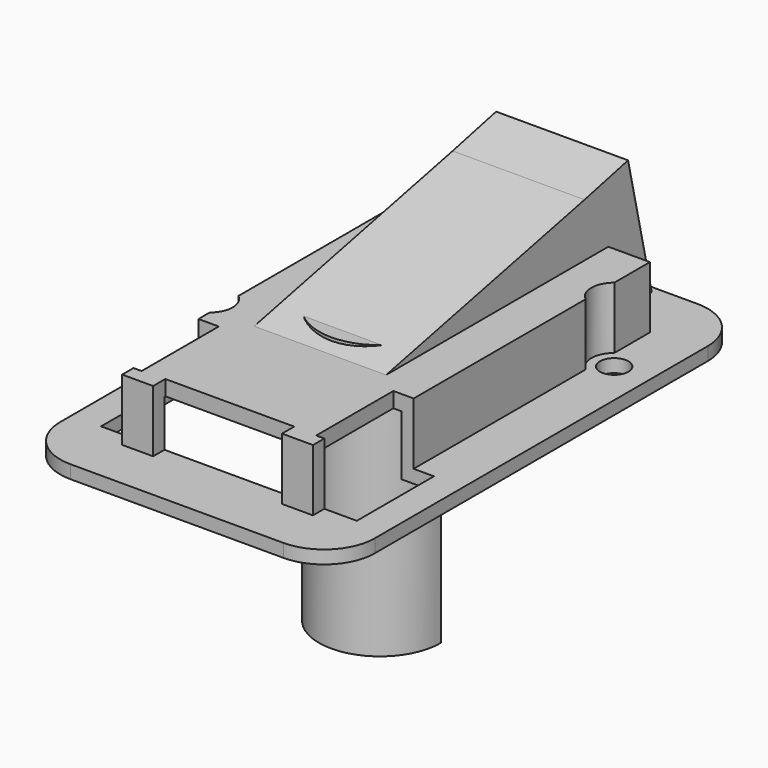
from build123d import *

# Parameters (mm, degrees)
F0_W           = 31
F0_H           = 40
F0_R           = 1.4
F1_DEPTH       = 1.3
F4_R           = 4.15
F5_DEPTH       = 12.5
F7_DEPTH       = 5.9
F8_W           = 21.2
F8_H           = 40
F9_DEPTH       = 1.5
F10_DEPTH      = 25
F11_W          = 2
F11_H          = 9
F12_DEPTH      = 6.1
F13_W          = 18.8
F13_H          = 1.4
F14_DEPTH      = 5.9
F16_DEPTH      = 6.5
F18_DEPTH      = 6.5
F19_R          = 4.25
F20_DEPTH      = 25
F22_START      = -1.3
F21_W          = 10.2
F21_H          = 10.2
F22_DEPTH      = 28.7
F23_W          = 31
F23_H          = 6
F23_H_2        = 5
F24_DEPTH      = 1.3
F26_START      = -1.3
F25_W          = 8.5
F25_H          = 8.5
F26_DEPTH      = 33.7
F27_R          = 5
F28_W          = 12.7
F28_H          = 11.4416826424
F29_DEPTH      = 6.1
F30_W          = 10.2
F30_H          = 6.0366649356
F31_DEPTH      = 2
F32_R          = 2.25
F33_DEPTH      = 25
F34_W          = 18.8
F34_H          = 1.5
F35_DEPTH      = 25
F36_W          = 4
F36_H          = 9.5
F37_DEPTH      = 25
F38_W          = 0.8
F38_H          = 1.4
F39_DEPTH      = 6.1
F40_R          = 6
F40_R_2        = 4.5
F41_DEPTH      = 19
F41_DEPTH_BACK = 8
F42_R          = 6
F42_R_2        = 3.75
F43_DEPTH      = 0.5
F44_W          = 12.3386057094
F44_H          = 24.3167272657
F45_DEPTH      = 12.5
F46_W          = 1
F46_H          = 8.638324216
F47_DEPTH      = 25


with BuildPart() as f1:
    # F0 (on Top) → F1 (new body)
    with BuildSketch(Plane.XY):
        Rectangle(F0_W, F0_H)
        with Locations((-12, -5.95)):
            Circle(F0_R, mode=Mode.SUBTRACT)
        with Locations((12, 13.85)):
            Circle(F0_R, mode=Mode.SUBTRACT)
    extrude(amount=F1_DEPTH)

    # F4 (on face) → F5 (cut, symmetric)
    with BuildSketch(Plane.XY.offset(1.3)):
        with Locations((0, 4.35)):
            Circle(F4_R)
    extrude(amount=F5_DEPTH, both=True, mode=Mode.SUBTRACT)

    # F6 (on face) → F7 (join)
    with BuildSketch(Plane(origin=(0, 0, 0), x_dir=(1, 0, 0), z_dir=(0, 0, -1))):
        Polygon((9.4, 20), (9.4, -16.3), (-9.4, -16.3), (-9.4, 20), (-10.6, 20), (-10.6, -20), (0, -20), (10.6, -20), (10.6, 20), align=None)
    extrude(amount=-F7_DEPTH)

    # F8 (on face) → F9 (join)
    with BuildSketch(Plane.XY.offset(5.9)):
        Rectangle(F8_W, F8_H)
    extrude(amount=F9_DEPTH)

    # F10 (cut): a face of the model
    f10_faces = [f1.faces().sort_by_distance(p)[0] for p in [
        (0, -2.3838844232, 1.3),
    ]]
    extrude(f10_faces, amount=-F10_DEPTH, mode=Mode.SUBTRACT)

    # F11 (on face) → F12 (cut, through all)
    with BuildSketch(Plane.XY.offset(7.4)):
        with Locations((9.6, -16)):
            Rectangle(F11_W, F11_H)
        with Locations((-9.6, -16)):
            Rectangle(F11_W, F11_H)
    extrude(amount=-F12_DEPTH, mode=Mode.SUBTRACT)

    # F13 (on face) → F14 (join, through all)
    with BuildSketch(Plane(origin=(0, 0, 0), x_dir=(1, 0, 0), z_dir=(0, 0, -1))):
        with Locations((0, 19.3)):
            Rectangle(F13_W, F13_H)
    extrude(amount=-F14_DEPTH)

    # F15 (on Right) → F16 (join, symmetric)
    with BuildSketch(Plane.YZ):
        Polygon((17.0756362935, 12.6668108422), (20, 0), (25.3590353563, 1.2372307989), (22.4346716498, 13.9040416411), align=None)
    extrude(amount=F16_DEPTH, both=True)

    # F17 (on Right) → F18 (join, symmetric)
    with BuildSketch(Plane.YZ):
        Polygon((18.2915753857, 7.4), (17.0756362935, 12.6668108422), (-7.363281513, 7.4), align=None)
    extrude(amount=F18_DEPTH, both=True)

    # F19 (on face) → F20 (cut)
    with BuildSketch(Plane(origin=(0, 24.3469758193, 5.6209422668), x_dir=(-1, 0, 0), z_dir=(0, 0.9743700648, 0.2249510543))):
        with Locations((0, 2.0009789131)):
            Circle(F19_R)
    extrude(amount=-F20_DEPTH, mode=Mode.SUBTRACT)

    # F21 (on face) → F22 (cut)
    with BuildSketch(Plane(origin=(0, 24.3469758193, 5.6209422668), x_dir=(-1, 0, 0), z_dir=(0, 0.9743700648, 0.2249510543)).offset(F22_START)):
        with Locations((0, 2.1509789131)):
            Rectangle(F21_W, F21_H)
    extrude(amount=-F22_DEPTH, mode=Mode.SUBTRACT)

    # F23 (on face) → F24 (join)
    with BuildSketch(Plane(origin=(0, 0, 0), x_dir=(1, 0, 0), z_dir=(0, 0, -1))):
        with Locations((0, -23)):
            Rectangle(F23_W, F23_H)
        with Locations((0, 22.5)):
            Rectangle(F23_W, F23_H_2)
    extrude(amount=-F24_DEPTH)

    # F25 (on face) → F26 (cut)
    with BuildSketch(Plane(origin=(0, 24.3469758193, 5.6209422668), x_dir=(-1, 0, 0), z_dir=(0, 0.9743700648, 0.2249510543)).offset(F26_START)):
        with Locations((0, 2.0009789131)):
            Rectangle(F25_W, F25_H)
    extrude(amount=-F26_DEPTH, mode=Mode.SUBTRACT)

    # F27
    f27_edges = [f1.edges().sort_by_distance(p)[0] for p in [
        (-15.5, 26, 0.65),
        (15.5, 26, 0.65),
        (15.5, -25, 0.65),
        (-15.5, -25, 0.65),
    ]]
    fillet(f27_edges, radius=F27_R)

    # F28 (on face) → F29 (cut, through all)
    with BuildSketch(Plane.XY.offset(7.4)):
        with Locations((0, -24.2208413212)):
            Rectangle(F28_W, F28_H)
    extrude(amount=-F29_DEPTH, mode=Mode.SUBTRACT)

    # F30 (on face) → F31 (cut)
    with BuildSketch(Plane(origin=(0, 0, 0), x_dir=(1, 0, 0), z_dir=(0, 0, -1))):
        with Locations((0, -17.2816675322)):
            Rectangle(F30_W, F30_H)
    extrude(amount=-F31_DEPTH, mode=Mode.SUBTRACT)

    # F32 (on face) → F33 (cut)
    with BuildSketch(Plane.XY.offset(1.3)):
        with Locations((-12, -5.95)):
            Circle(F32_R)
        with Locations((12, 13.85)):
            Circle(F32_R)
    extrude(amount=F33_DEPTH, mode=Mode.SUBTRACT)

    # F34 (on face) → F35 (cut)
    with BuildSketch(Plane(origin=(0, 0, 5.9), x_dir=(1, 0, 0), z_dir=(0, 0, -1))):
        with Locations((0, -17.05)):
            Rectangle(F34_W, F34_H)
    extrude(amount=F35_DEPTH, mode=Mode.SUBTRACT)

    # F36 (on face) → F37 (cut)
    with BuildSketch(Plane.XY.offset(7.4)):
        with Locations((10.6, -13.85)):
            Rectangle(F36_W, F36_H)
        with Locations((-10.6, -13.85)):
            Rectangle(F36_W, F36_H)
    extrude(amount=-F37_DEPTH, mode=Mode.SUBTRACT)

    # F38 (on face) → F39 (join, through all)
    with BuildSketch(Plane.XY.offset(7.4)):
        with Locations((-9, -19.3)):
            Rectangle(F38_W, F38_H)
        with Locations((9, -19.3)):
            Rectangle(F38_W, F38_H)
    extrude(amount=-F39_DEPTH)


with BuildPart() as f41:
    # F40 (on Top) → F41 (new body, two sides)
    with BuildSketch(Plane.XY) as f41_sk:
        Circle(F40_R)
        Circle(F40_R_2, mode=Mode.SUBTRACT)
    extrude(amount=-F41_DEPTH)
    extrude(f41_sk.sketch, amount=F41_DEPTH_BACK)

    # F42 (on Top) → F43 (join, symmetric)
    with BuildSketch(Plane.XY):
        Circle(F42_R)
        Circle(F42_R_2, mode=Mode.SUBTRACT)
    extrude(amount=F43_DEPTH, both=True)

    # F44 (on Right) → F45 (cut, symmetric)
    with BuildSketch(Plane.YZ):
        with Locations((6.1693028547, -12.6583636329)):
            Rectangle(F44_W, F44_H)
    extrude(amount=F45_DEPTH, both=True, mode=Mode.SUBTRACT)

    # F46 (on face) → F47 (cut)
    with BuildSketch(Plane.XY.offset(8)):
        with Locations((0, 4.319162108)):
            Rectangle(F46_W, F46_H)
    extrude(amount=-F47_DEPTH, mode=Mode.SUBTRACT)


solid = Compound([f1.part, f41.part])
